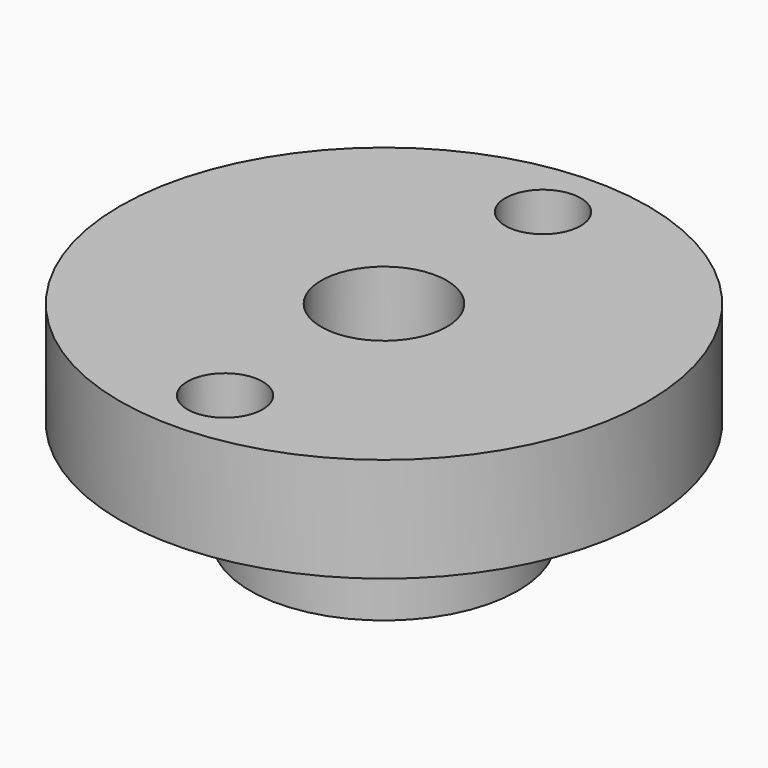
from build123d import *

# Parameters (mm, degrees)
F0_R     = 12.625
F0_R_2   = 1.8
F0_R_3   = 6.4
F0_R_4   = 3
F1_DEPTH = 5
F2_DEPTH = 5
F3_DEPTH = 4


with BuildPart() as f1:
    # F0 (on Top) → F1 (new body)
    with BuildSketch(Plane.XY):
        Circle(F0_R)
        with Locations((0, -9.5)):
            Circle(F0_R_2, mode=Mode.SUBTRACT)
        Circle(F0_R_3, mode=Mode.SUBTRACT)
        with Locations((0, 9.5)):
            Circle(F0_R_2, mode=Mode.SUBTRACT)
        Circle(F0_R_3)
        Polygon((-4.734272, 0), (-2.367136, 4.1), (2.367136, 4.1), (4.734272, 0), (2.367136, -4.1), (-2.367136, -4.1), align=None, mode=Mode.SUBTRACT)
        Polygon((2.367136, 4.1), (-2.367136, 4.1), (-4.734272, 0), (-2.367136, -4.1), (2.367136, -4.1), (4.734272, 0), align=None)
        Circle(F0_R_4, mode=Mode.SUBTRACT)
    extrude(amount=F1_DEPTH)

    # F0 (on Top) → F2 (join)
    with BuildSketch(Plane.XY):
        Circle(F0_R_3)
        Polygon((-4.734272, 0), (-2.367136, 4.1), (2.367136, 4.1), (4.734272, 0), (2.367136, -4.1), (-2.367136, -4.1), align=None, mode=Mode.SUBTRACT)
    extrude(amount=-F2_DEPTH)


with BuildPart() as f3:
    # F0 (on Top) → F3 (new body)
    with BuildSketch(Plane.XY):
        Polygon((2.367136, 4.1), (-2.367136, 4.1), (-4.734272, 0), (-2.367136, -4.1), (2.367136, -4.1), (4.734272, 0), align=None)
        Circle(F0_R_4, mode=Mode.SUBTRACT)
    extrude(amount=-F3_DEPTH)


solid = Compound([f1.part, f3.part])
